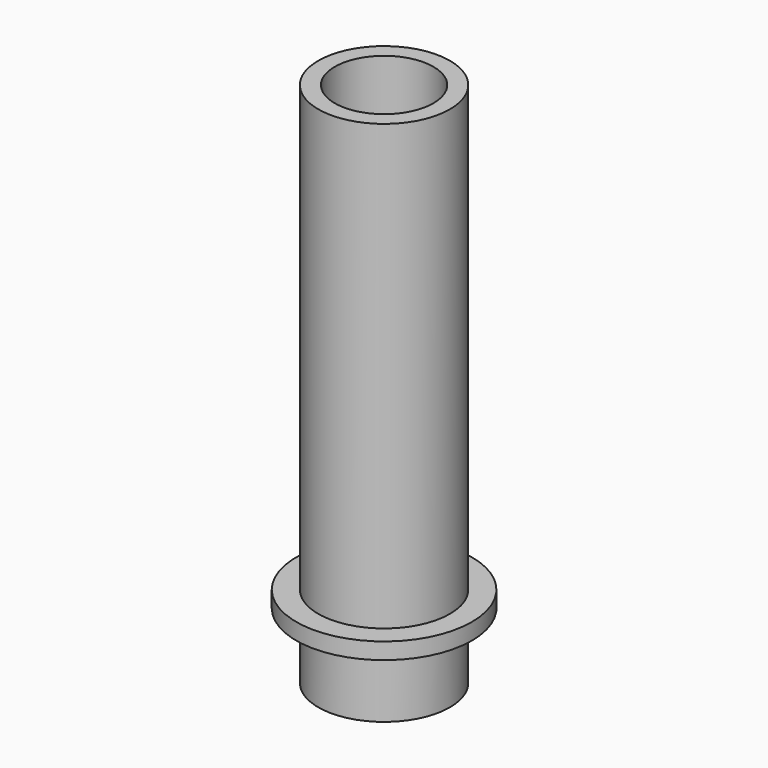
from build123d import *

# Parameters (mm, degrees)
F0_R     = 19.05
F0_R_2   = 7.14375
F1_DEPTH = 76.2


with BuildPart() as f1:
    # F0 (on Top) → F1 (new body)
    with BuildSketch(Plane.XY):
        Circle(F0_R)
        Circle(F0_R_2, mode=Mode.SUBTRACT)
    extrude(amount=F1_DEPTH)

    # F2 (on Front) → F3 (revolve, cut)
    with BuildSketch(Plane.XZ):
        Polygon((9.525, 9.525), (9.525, 0), (34.925, 0), (34.925, 101.6), (9.525, 101.6), (9.525, 11.90625), (12.7, 11.90625), (12.7, 9.525), align=None)
    revolve(axis=Axis((0, 0, 0), (0, 0, -1)), mode=Mode.SUBTRACT)


solid = f1.part
